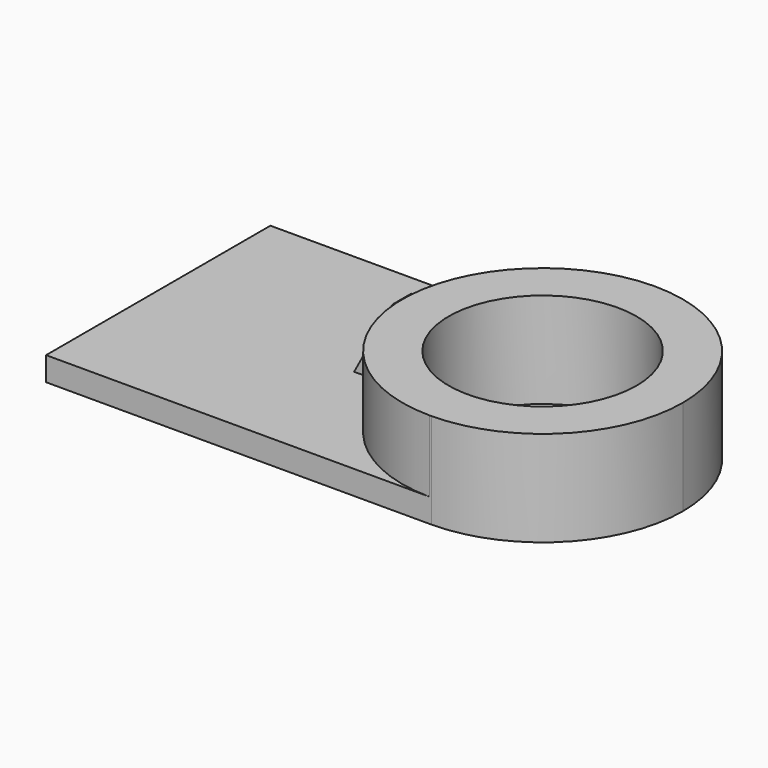
from build123d import *

# Parameters (mm, degrees)
F1_DEPTH = 25.4
F2_DEPTH = 6.35
F4_DEPTH = 3.175
F5_R     = 24.9785036256
F6_DEPTH = 89.916


with BuildPart() as f1:
    # F0 (on Top) → F1 (new body)
    with BuildSketch(Plane.XY):
        with BuildLine():
            Line((51.2434020638, 37.2763350606), (50.6863420601, 37.2763350606))
            ThreePointArc((50.6863420601, 37.2763350606), (13.6874964232, 0), (50.6863420601, -37.2763350606))
            Line((50.6863420601, -37.2763350606), (51.2434020638, -37.2763350606))
            Line((51.2434020638, -37.2763350606), (51.2434020638, 37.2763350606))
        make_face()
        with BuildLine():
            ThreePointArc((88.2422477007, 0), (77.4222491241, 26.2604252346), (51.2434020638, 37.2763350606))
            Line((51.2434020638, 37.2763350606), (51.2434020638, -37.2763350606))
            ThreePointArc((51.2434020638, -37.2763350606), (77.4222491241, -26.2604252346), (88.2422477007, 0))
        make_face()
    extrude(amount=F1_DEPTH)

    # F0 (on Top) → F2 (join)
    with BuildSketch(Plane.XY):
        with BuildLine():
            Line((50.6863420601, 37.2763350606), (-51.2434020638, 37.2763350606))
            Line((-51.2434020638, 37.2763350606), (-51.2434020638, -37.2763350606))
            Line((-51.2434020638, -37.2763350606), (50.6863420601, -37.2763350606))
            ThreePointArc((50.6863420601, -37.2763350606), (13.6874964232, 0), (50.6863420601, 37.2763350606))
        make_face()
    extrude(amount=F2_DEPTH)

    # F3 (on Front) → F4 (join, symmetric)
    with BuildSketch(Plane.XZ):
        Polygon((13.5906888172, 25.4415851086), (0, 0), (13.5906888172, 0), align=None)
    extrude(amount=F4_DEPTH, both=True)

    # F5 (on face) → F6 (cut)
    with BuildSketch(Plane.XY.offset(25.4)):
        with Locations((50.964872062, 0)):
            Circle(F5_R)
    extrude(amount=-F6_DEPTH, mode=Mode.SUBTRACT)


solid = f1.part
